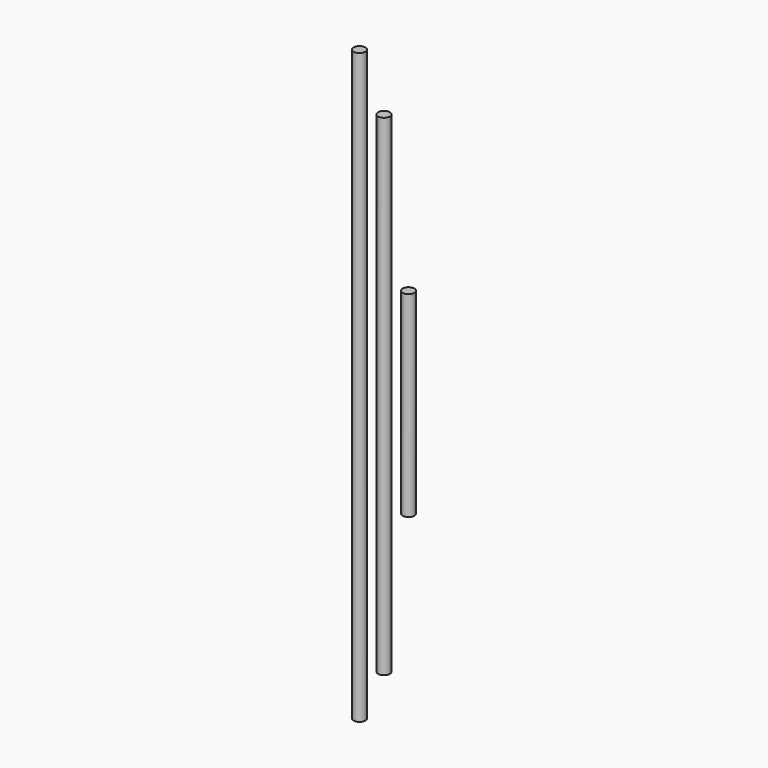
from build123d import *

# Parameters (mm, degrees)
F3_R     = 6
F4_DEPTH = 300
F5_DEPTH = 250
F6_DEPTH = 100


with BuildPart() as f4:
    # F3 (on Top) → F4 (new body, symmetric)
    with BuildSketch(Plane.XY):
        with Locations((-25, 0)):
            Circle(F3_R)
    extrude(amount=F4_DEPTH, both=True)


with BuildPart() as f5:
    # F3 (on Top) → F5 (new body, symmetric)
    with BuildSketch(Plane.XY):
        Circle(F3_R)
    extrude(amount=F5_DEPTH, both=True)


with BuildPart() as f6:
    # F3 (on Top) → F6 (new body, symmetric)
    with BuildSketch(Plane.XY):
        with Locations((25, 0)):
            Circle(F3_R)
    extrude(amount=F6_DEPTH, both=True)


solid = Compound([f4.part, f5.part, f6.part])
